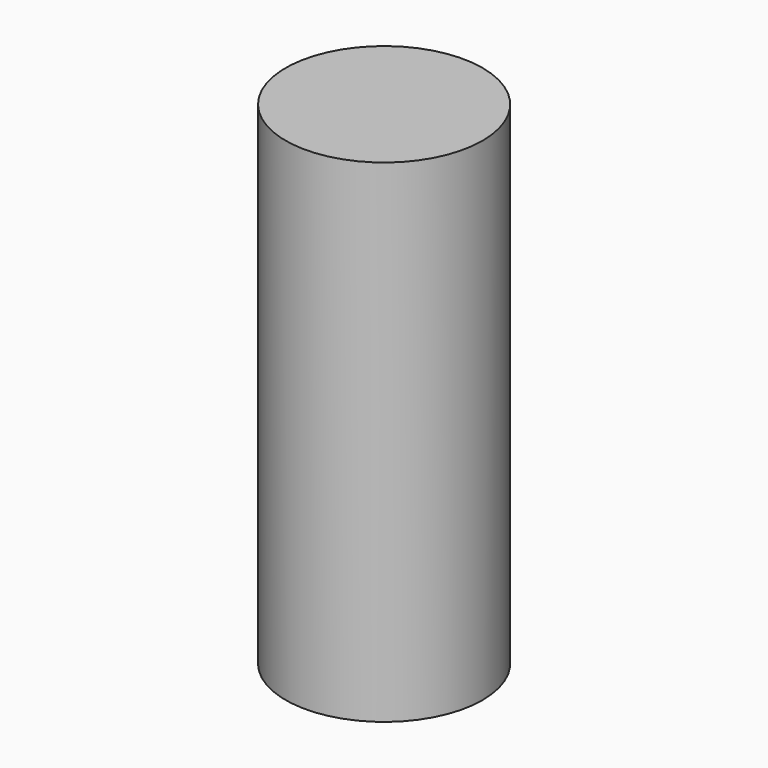
from build123d import *

# Parameters (mm, degrees)
SKETCH_R     = 15
PAD_DEPTH    = 75
SKETCH001_R  = 12.5
POCKET_DEPTH = 65


with BuildPart() as part:
    # Sketch → Pad (new body)
    with BuildSketch(Plane.XY):
        Circle(SKETCH_R)
    extrude(amount=PAD_DEPTH)

    # Sketch001 → Pocket (cut)
    with BuildSketch(Plane.XY):
        Circle(SKETCH001_R)
    extrude(amount=POCKET_DEPTH, mode=Mode.SUBTRACT)


solid = part.part
